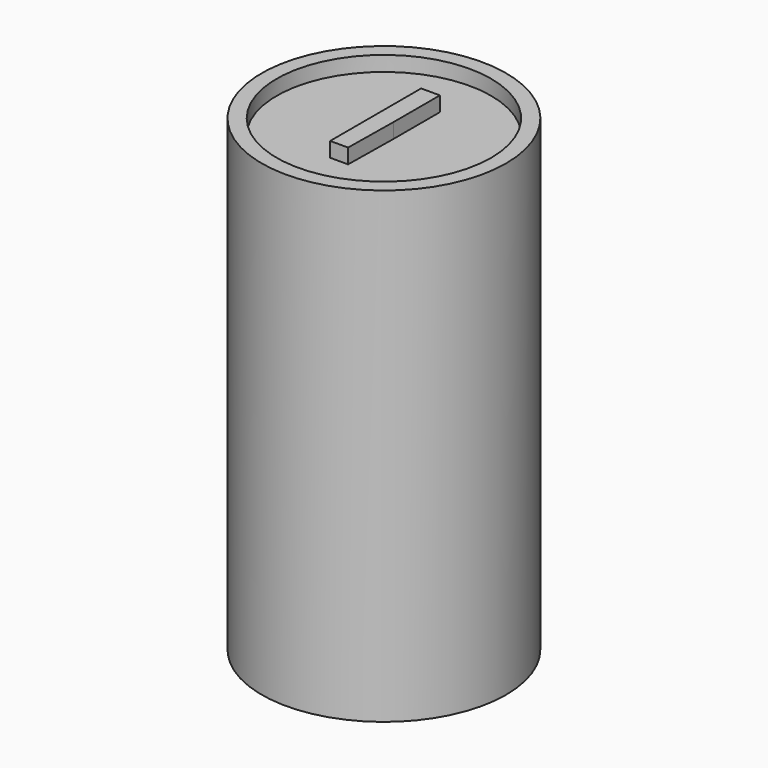
from build123d import *

# Parameters (mm, degrees)
F3_DEPTH = 0.68823


with BuildPart() as f1:
    # F0 (on Front) → F1 (revolve)
    with BuildSketch(Plane.XZ):
        Polygon((4.975496, 21.716855), (4.975496, 21.020511), (0, 21.020511), (0, 20.680025), (0.289994, 20.680025), (5.444795, 20.680025), (5.444795, 0), (5.671841, 0), (5.671841, 21.716855), align=None)
    revolve(axis=Axis((0, 0, 20.850268), (0, 0, 1)))

    # F2 (on face) → F3 (join)
    with BuildSketch(Plane.XY.offset(21.020511)):
        Polygon((0.41165, -2.594002), (0.44908, 0), (0.44908, 2.685035), (-0.420678, 2.685035), (-0.420678, -2.594002), align=None)
    extrude(amount=F3_DEPTH)


solid = f1.part
